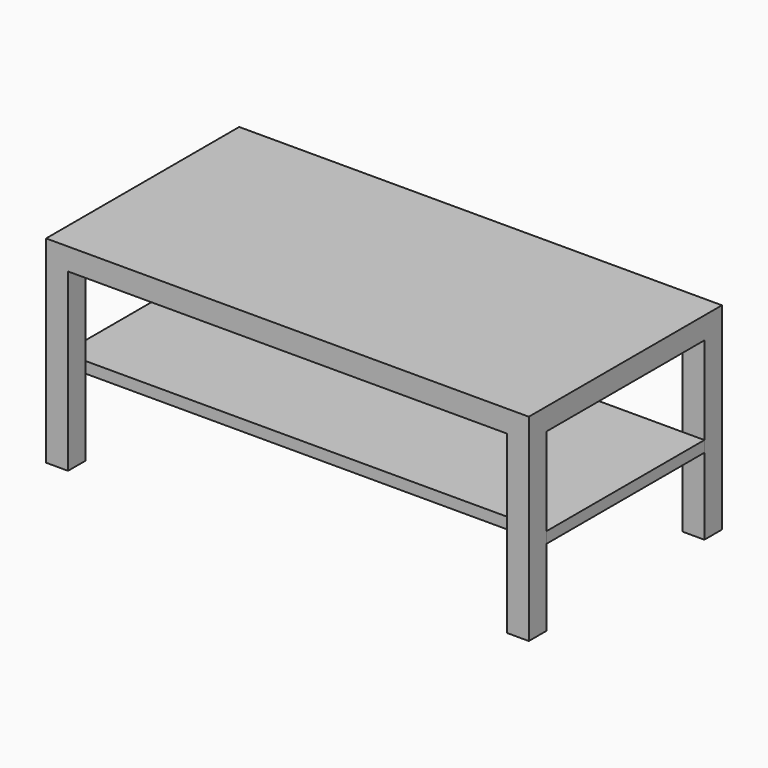
from build123d import *

# Parameters (mm, degrees)
F0_W     = 1100
F0_H     = 550
F1_DEPTH = 50
F2_W     = 50
F2_H     = 50
F3_DEPTH = 400
F5_W     = 1100
F5_H     = 450
F6_DEPTH = 25.4


with BuildPart() as f1:
    # F0 (on Top) → F1 (new body)
    with BuildSketch(Plane.XY):
        Rectangle(F0_W, F0_H)
    extrude(amount=F1_DEPTH)

    # F2 (on face) → F3 (join)
    with BuildSketch(Plane(origin=(0, 0, 0), x_dir=(1, 0, 0), z_dir=(0, 0, -1))):
        with Locations((-525, 250)):
            Rectangle(F2_W, F2_H)
        with Locations((-525, -250)):
            Rectangle(F2_W, F2_H)
        with Locations((525, -250)):
            Rectangle(F2_W, F2_H)
        with Locations((525, 250)):
            Rectangle(F2_W, F2_H)
    extrude(amount=F3_DEPTH)


with BuildPart() as f6:
    # F5 (on offset) → F6 (new body)
    with BuildSketch(Plane(origin=(0, 0, -200), x_dir=(1, 0, 0), z_dir=(0, 0, -1))):
        Rectangle(F5_W, F5_H)
    extrude(amount=F6_DEPTH)


solid = Compound([f1.part, f6.part])
